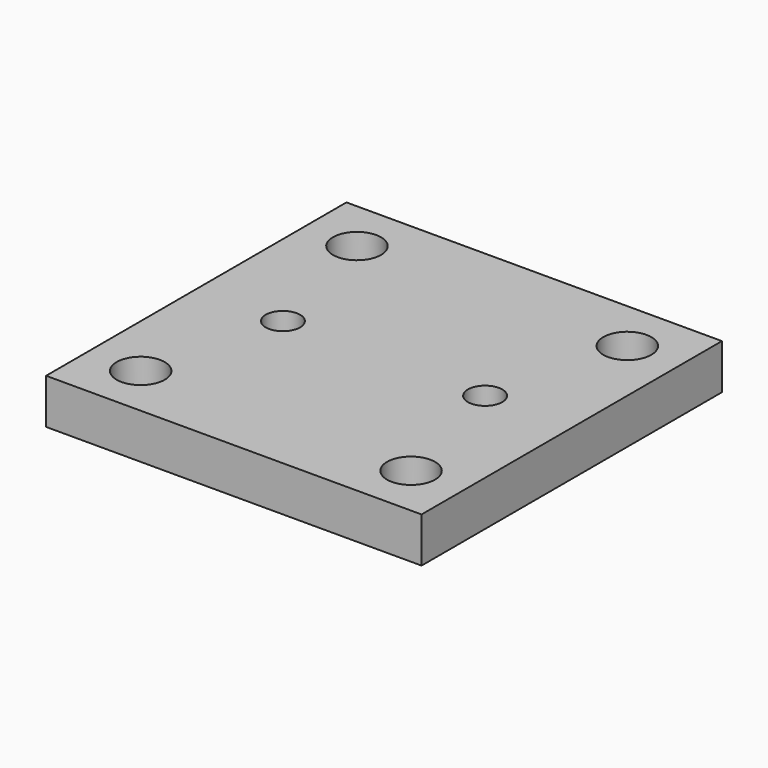
from build123d import *

# Parameters (mm, degrees)
F0_W     = 25
F0_H     = 25
F1_DEPTH = 3
F2_D     = 2.286
F3_D     = 3.2


with BuildPart() as f1:
    # F0 (on Top) → F1 (new body)
    with BuildSketch(Plane.XY):
        Rectangle(F0_W, F0_H)
    extrude(amount=F1_DEPTH)

    # F2 (through all)
    with Locations(Plane(origin=(0, 0, 0), x_dir=(1, 0, 0), z_dir=(0, 0, -1))):
        with Locations((-6.731, 0), (6.731, 0)):
            Hole(F2_D / 2)

    # F3 (through all)
    with Locations(Plane(origin=(0, 0, 0), x_dir=(1, 0, 0), z_dir=(0, 0, -1))):
        with Locations((-9, 9), (-9, -9), (9, 9), (9, -9)):
            Hole(F3_D / 2)


solid = f1.part
